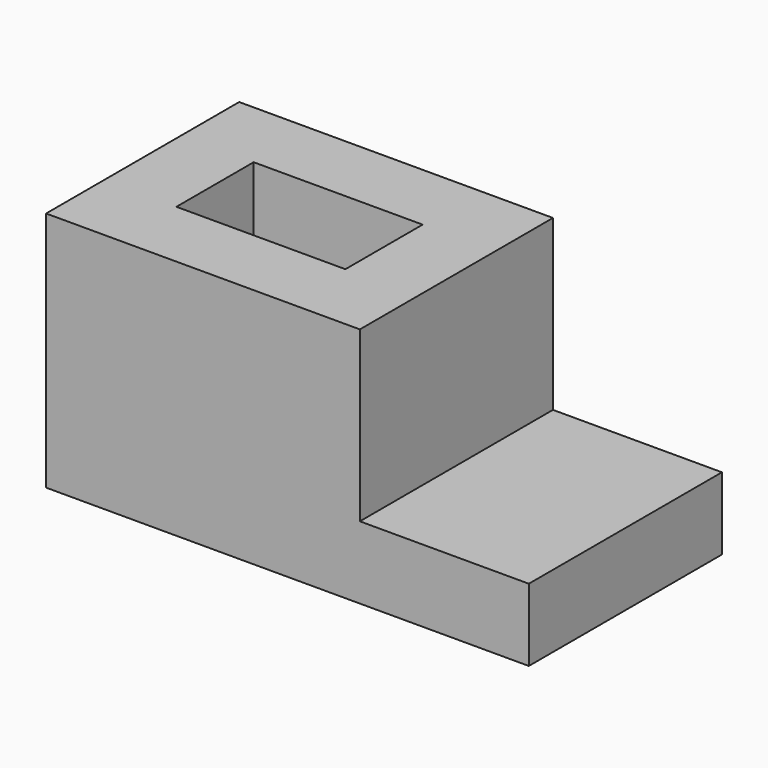
from build123d import *

# Parameters (mm, degrees)
F2_DEPTH = 63.5
F1_W     = 44.45
F1_H     = 25.4
F3_DEPTH = 63.5


with BuildPart() as f2:
    # F0 (on Front) → F2 (new body)
    with BuildSketch(Plane.XZ):
        Polygon((-82.55, 0), (0, 0), (44.45, 0), (44.45, 19.05), (0, 19.05), (0, 63.5), (-82.55, 63.5), align=None)
    extrude(amount=-F2_DEPTH)

    # F1 (on Top) → F3 (cut)
    with BuildSketch(Plane.XY):
        with Locations((-41.275, 31.75)):
            Rectangle(F1_W, F1_H)
    extrude(amount=F3_DEPTH, mode=Mode.SUBTRACT)


solid = f2.part
